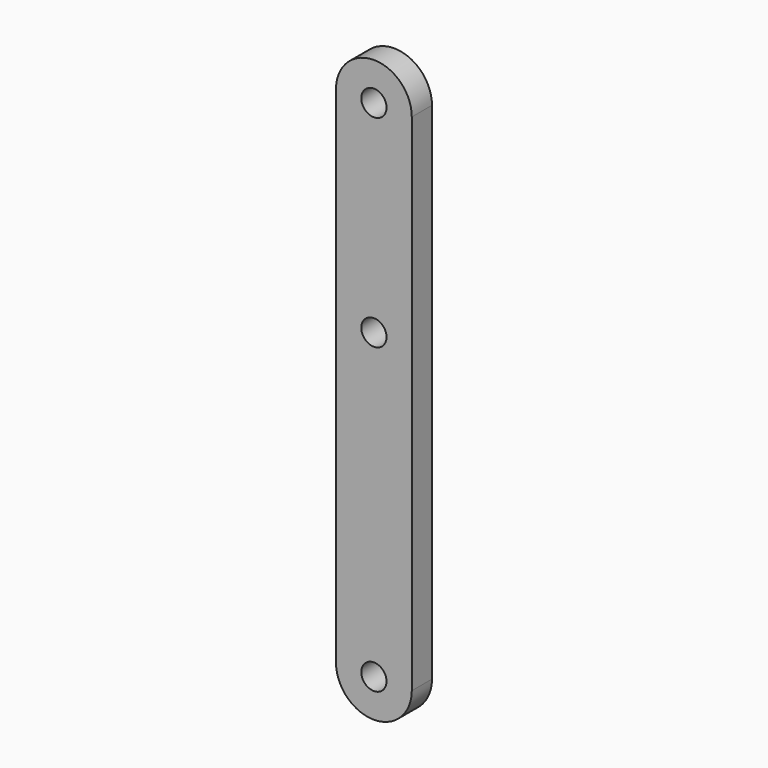
from build123d import *

# Parameters (mm, degrees)
F1_DEPTH = 5
F2_R     = 2.5
F3_DEPTH = 5.001


with BuildPart() as f1:
    # F0 (on Front) → F1 (new body)
    with BuildSketch(Plane.XZ):
        with BuildLine():
            Line((7.5, -50), (7.5, 50))
            Line((7.5, 50), (2.5, 50))
            ThreePointArc((2.5, 50), (0, 47.5), (-2.5, 50))
            Line((-2.5, 50), (-7.5, 50))
            Line((-7.5, 50), (-7.5, -50))
            Line((-7.5, -50), (-2.5, -50))
            ThreePointArc((-2.5, -50), (0, -47.5), (2.5, -50))
            Line((2.5, -50), (7.5, -50))
        make_face()
        with BuildLine():
            Line((2.5, 50), (7.5, 50))
            ThreePointArc((7.5, 50), (0, 57.5), (-7.5, 50))
            Line((-7.5, 50), (-2.5, 50))
            ThreePointArc((-2.5, 50), (0, 52.5), (2.5, 50))
        make_face()
        with BuildLine():
            ThreePointArc((-7.5, -50), (0, -57.5), (7.5, -50))
            Line((7.5, -50), (2.5, -50))
            ThreePointArc((2.5, -50), (0, -52.5), (-2.5, -50))
            Line((-2.5, -50), (-7.5, -50))
        make_face()
    extrude(amount=F1_DEPTH)

    # F2 (on face) → F3 (cut, through all)
    with BuildSketch(Plane.XZ.offset(5)):
        with Locations((0, 10)):
            Circle(F2_R)
    extrude(amount=-F3_DEPTH, mode=Mode.SUBTRACT)


solid = f1.part
